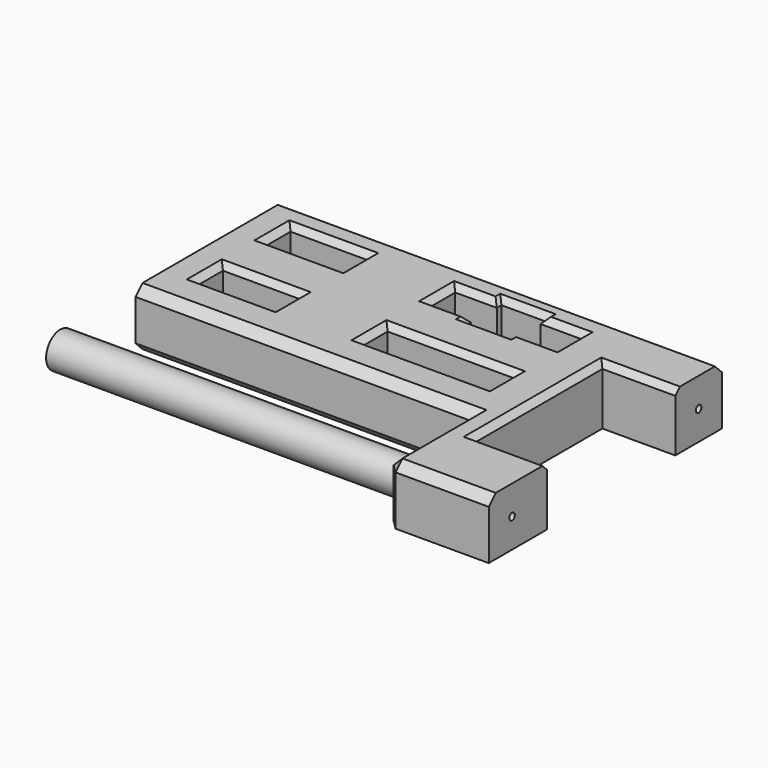
from build123d import *

# Parameters (mm, degrees)
F0_W           = 26.5
F0_H           = 11
F0_W_2         = 43.5
F1_DEPTH       = 20
F2_SIZE        = 2
F3_R           = 6.1
F4_DEPTH       = 10
F5_DEPTH       = 130
F8_D           = 2.4
F8_DEPTH       = 10
F8_TIP         = 0.7210327428
F8_ON_F7_D     = 2.4
F8_ON_F7_DEPTH = 10
F8_ON_F7_TIP   = 0.7210327428
F9_SIZE        = 3


with BuildPart() as f1:
    # F0 (on Top) → F1 (new body)
    with BuildSketch(Plane.XY):
        Polygon((40, -50), (75, -50), (75, -25), (50, -25), (50, 30), (75, 30), (75, 50), (-75, 50), (-75, -14), (40, -14), align=None)
        with Locations((-51.75, 5.5)):
            Rectangle(F0_W, F0_H, mode=Mode.SUBTRACT)
        with Locations((-51.75, 34.5)):
            Rectangle(F0_W, F0_H, mode=Mode.SUBTRACT)
        with Locations((13.25, 5.5)):
            Rectangle(F0_W_2, F0_H, mode=Mode.SUBTRACT)
        Polygon((-8.5, 29), (-8.5, 40), (5.75, 40), (5.75, 42), (20.75, 42), (20.75, 40), (35, 40), (35, 29), (20.75, 29), (20.75, 27), (5.75, 27), (5.75, 29), align=None, mode=Mode.SUBTRACT)
    extrude(amount=F1_DEPTH)

    # F2
    f2_edges = [f1.edges().sort_by_distance(p)[0] for p in [
        (-51.75, 11, 20),
        (-65, 5.5, 20),
        (-51.75, 0, 20),
        (-38.5, 5.5, 20),
        (-38.5, 34.5, 20),
        (-51.75, 40, 20),
        (-51.75, 29, 20),
        (-65, 34.5, 20),
        (13.25, 11, 20),
        (-8.5, 5.5, 20),
        (13.25, 0, 20),
        (35, 5.5, 20),
        (62.5, 30, 20),
        (50, 2.5, 20),
        (62.5, -25, 20),
        (13.25, 42, 20),
        (5.75, 41, 20),
        (27.875, 40, 20),
        (20.75, 41, 20),
        (5.75, 28, 20),
        (13.25, 27, 20),
        (20.75, 28, 20),
        (27.875, 29, 20),
        (-8.5, 34.5, 20),
        (-1.375, 40, 20),
        (-1.375, 29, 20),
        (35, 34.5, 20),
    ]]
    chamfer(f2_edges, length=F2_SIZE)

    # F3 (on face) → F4 (cut)
    with BuildSketch(Plane(origin=(40, 0, 0), x_dir=(0, -1, 0), z_dir=(-1, 0, 0))):
        with Locations((40, 10)):
            Circle(F3_R)
    extrude(amount=-F4_DEPTH, mode=Mode.SUBTRACT)


with BuildPart() as f5:
    # F5 (new): a face of the model
    f5_faces = [f1.part.faces().sort_by_distance(p)[0] for p in [
        (50, -40, 10),
    ]]
    extrude(f5_faces, amount=F5_DEPTH)


with BuildPart() as f1_1:
    add(f1.part)

    # F8
    with Locations(Plane.YZ.offset(75)):
        with Locations((-40, 10), (40, 10)):
            Hole(F8_D / 2, depth=F8_DEPTH)
            with Locations((0, 0, -(F8_DEPTH + F8_TIP / 2))):  # 118° drill point
                Cone(0, F8_D / 2, F8_TIP, mode=Mode.SUBTRACT)

    # F8 on F7
    with Locations(Plane(origin=(-75, 0, 0), x_dir=(0, -1, 0), z_dir=(-1, 0, 0))):
        with Locations((4, 10), (-45, 10)):
            Hole(F8_ON_F7_D / 2, depth=F8_ON_F7_DEPTH)
            with Locations((0, 0, -(F8_ON_F7_DEPTH + F8_ON_F7_TIP / 2))):  # 118° drill point
                Cone(0, F8_ON_F7_D / 2, F8_ON_F7_TIP, mode=Mode.SUBTRACT)

    # F9
    f9_edges = [f1_1.edges().sort_by_distance(p)[0] for p in [
        (0, 50, 20),
        (40, -32, 20),
        (40, -50, 10),
        (57.5, -50, 20),
        (-17.5, -14, 20),
        (-17.5, -14, 0),
    ]]
    chamfer(f9_edges, length=F9_SIZE)


solid = Compound([f5.part, f1_1.part])
